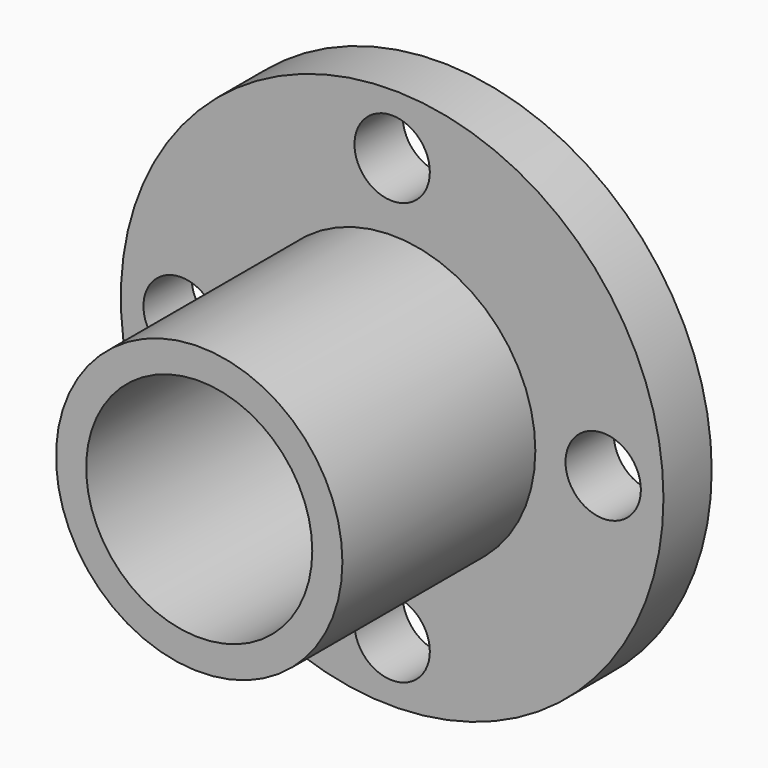
from build123d import *

# Parameters (mm, degrees)
F0_R     = 90
F0_R_2   = 12.5
F0_R_3   = 37.5
F1_DEPTH = 20
F2_R     = 47.5
F2_R_2   = 37.5
F3_DEPTH = 80


with BuildPart() as f1:
    # F0 (on Front) → F1 (new body)
    with BuildSketch(Plane.XZ):
        Circle(F0_R)
        with Locations((0, -70)):
            Circle(F0_R_2, mode=Mode.SUBTRACT)
        with Locations((-70, 0)):
            Circle(F0_R_2, mode=Mode.SUBTRACT)
        Circle(F0_R_3, mode=Mode.SUBTRACT)
        with Locations((70, 0)):
            Circle(F0_R_2, mode=Mode.SUBTRACT)
        with Locations((0, 70)):
            Circle(F0_R_2, mode=Mode.SUBTRACT)
    extrude(amount=F1_DEPTH)

    # F2 (on face) → F3 (join)
    with BuildSketch(Plane.XZ.offset(20)):
        Circle(F2_R)
        Circle(F2_R_2, mode=Mode.SUBTRACT)
    extrude(amount=F3_DEPTH)


solid = f1.part
